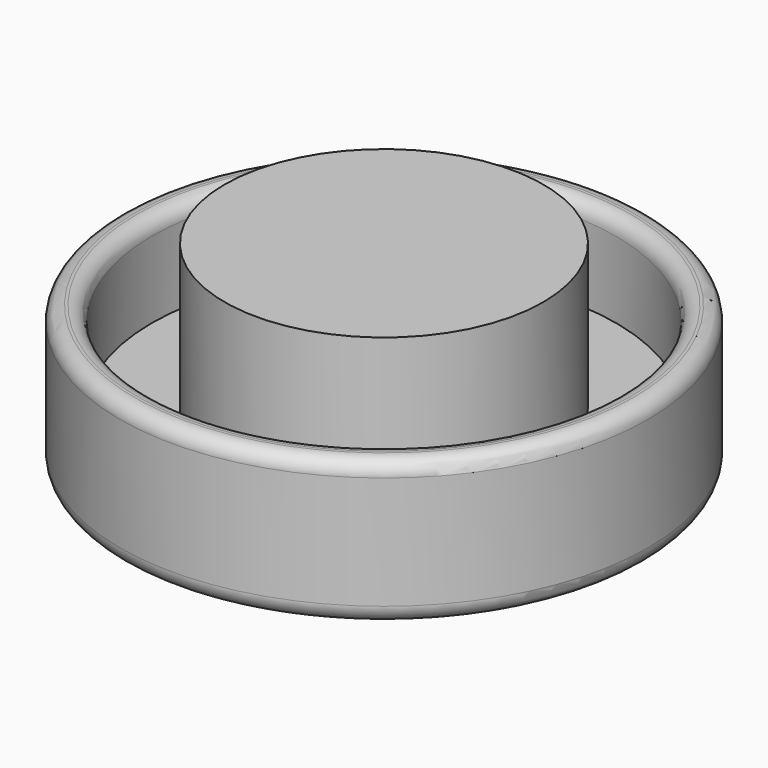
from build123d import *

# Parameters (mm, degrees)
F0_R     = 14.5
F1_DEPTH = 3
F2_R     = 8.75
F3_DEPTH = 8
F4_R     = 1
F5_R     = 14.5
F5_R_2   = 12.75
F6_DEPTH = 5
F7_R     = 0.8


with BuildPart() as f1:
    # F0 (on Top) → F1 (new body)
    with BuildSketch(Plane.XY):
        Circle(F0_R)
    extrude(amount=F1_DEPTH)

    # F2 (on face) → F3 (join)
    with BuildSketch(Plane.XY.offset(3)):
        Circle(F2_R)
    extrude(amount=F3_DEPTH)

    # F4
    f4_edges = [f1.edges().sort_by_distance(p)[0] for p in [
        (-14.5, 0, 0),
    ]]
    fillet(f4_edges, radius=F4_R)

    # F5 (on face) → F6 (join)
    with BuildSketch(Plane.XY.offset(3)):
        Circle(F5_R)
        Circle(F5_R_2, mode=Mode.SUBTRACT)
    extrude(amount=F6_DEPTH)

    # F7
    f7_edges = [f1.edges().sort_by_distance(p)[0] for p in [
        (-14.5, 0, 8),
        (-12.75, 0, 8),
    ]]
    fillet(f7_edges, radius=F7_R)


solid = f1.part
